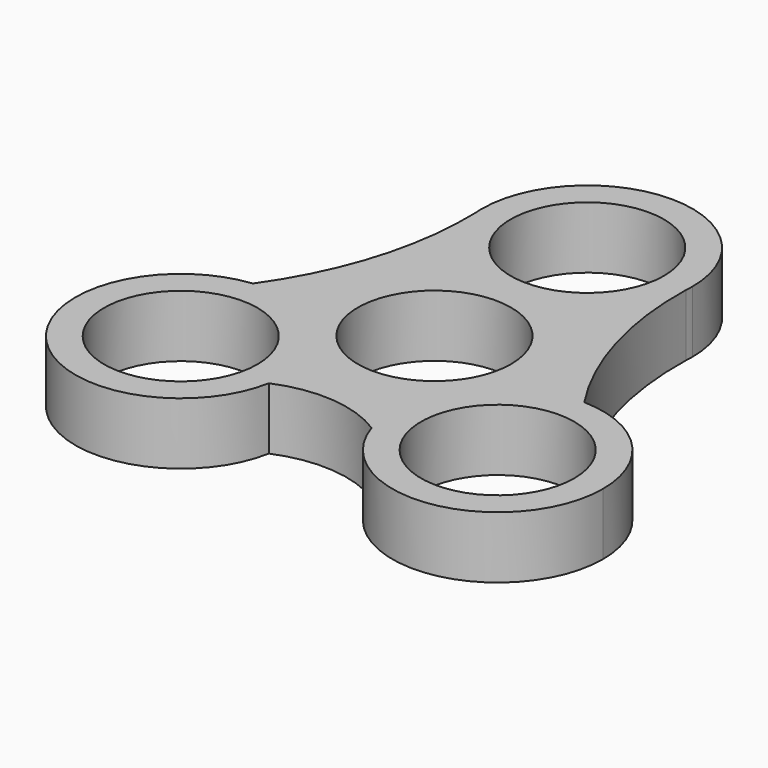
from build123d import *

# Parameters (mm, degrees)
F0_R     = 10.9982
F1_DEPTH = 8.89


with BuildPart() as f1:
    # F0 (on Top) → F1 (new body)
    with BuildSketch(Plane.XY):
        with BuildLine():
            ThreePointArc((-7.30594, -20.586929), (-7.114139, -19.208105), (-7.050024, -17.817482))
            ThreePointArc((-7.050024, -17.817482), (-12.08059, -6.559271), (-23.823306, -2.795956))
            ThreePointArc((-23.823306, -2.795956), (-33.238608, -28.100195), (-7.30594, -20.586929))
        make_face()
        with Locations((-22.163024, -17.817482)):
            Circle(F0_R, mode=Mode.SUBTRACT)
        with BuildLine():
            ThreePointArc((-23.823306, -2.795956), (-12.08059, -6.559271), (-7.050024, -17.817482))
            ThreePointArc((-7.050024, -17.817482), (-7.114139, -19.208105), (-7.30594, -20.586929))
            ThreePointArc((-7.30594, -20.586929), (0.735892, -19.274873), (8.464534, -21.855699))
            ThreePointArc((8.464534, -21.855699), (10.732709, -8.182627), (23.190467, -2.107943))
            ThreePointArc((23.190467, -2.107943), (16.953024, 11.468692), (15.070929, 26.290583))
            ThreePointArc((15.070929, 26.290583), (0.05546, 12.304565), (-15.062253, 26.180002))
            ThreePointArc((-15.062253, 26.180002), (-17.092318, 10.981347), (-23.823306, -2.795956))
        make_face()
        Circle(F0_R, mode=Mode.SUBTRACT)
        with BuildLine():
            ThreePointArc((-15.113, 27.417463), (-15.083625, 26.798897), (-15.062253, 26.180002))
            ThreePointArc((-15.062253, 26.180002), (0.05546, 12.304565), (15.070929, 26.290583))
            ThreePointArc((15.070929, 26.290583), (15.088741, 26.854143), (15.113, 27.417463))
            ThreePointArc((15.113, 27.417463), (0, 42.530463), (-15.113, 27.417463))
        make_face()
        with Locations((0, 27.417463)):
            Circle(F0_R, mode=Mode.SUBTRACT)
        with BuildLine():
            ThreePointArc((-15.113, 27.417463), (-15.100308, 26.798212), (-15.062253, 26.180002))
            ThreePointArc((-15.062253, 26.180002), (-15.083625, 26.798897), (-15.113, 27.417463))
        make_face()
        with BuildLine():
            ThreePointArc((23.190467, -2.107943), (10.732709, -8.182627), (8.464534, -21.855699))
            ThreePointArc((8.464534, -21.855699), (25.195882, -32.146581), (37.96106, -17.217064))
            ThreePointArc((37.96106, -17.217064), (33.654946, -6.652312), (23.190467, -2.107943))
        make_face()
        with Locations((22.84806, -17.217064)):
            Circle(F0_R, mode=Mode.SUBTRACT)
        with BuildLine():
            ThreePointArc((15.113, 27.417463), (15.088741, 26.854143), (15.070929, 26.290583))
            ThreePointArc((15.070929, 26.290583), (15.102479, 26.85363), (15.113, 27.417463))
        make_face()
    extrude(amount=F1_DEPTH)


solid = f1.part
